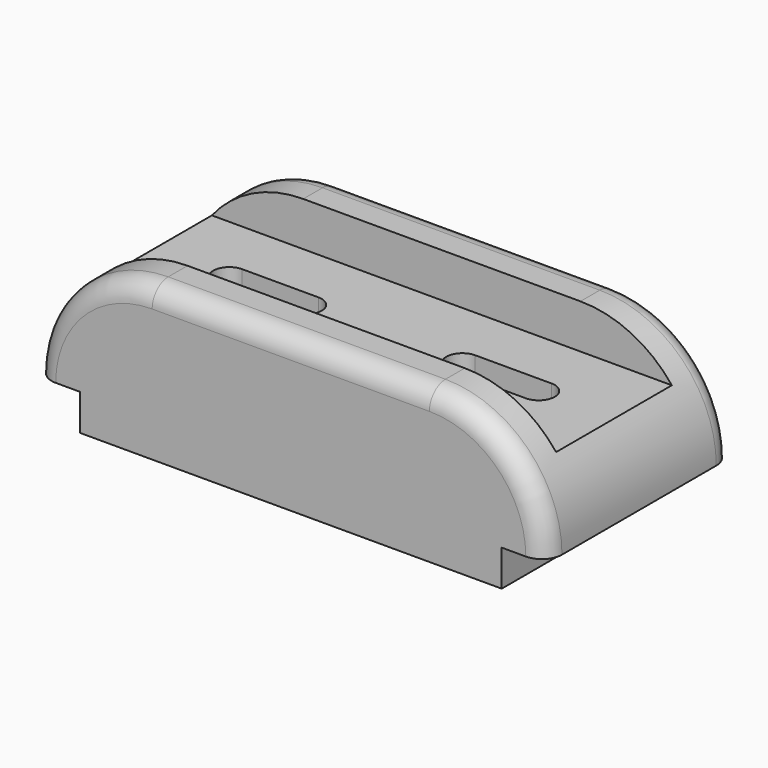
from build123d import *

# Parameters (mm, degrees)
F1_DEPTH = 58
F2_W     = 11
F2_H     = 9
F3_DEPTH = 58.001
F4_W     = 36
F4_H     = 11
F5_DEPTH = 127.001
F7_DEPTH = 27.001
F8_R     = 5


with BuildPart() as f1:
    # F0 (on Front) → F1 (new body)
    with BuildSketch(Plane.XZ):
        with BuildLine():
            Line((0, 9), (0, 0))
            Line((0, 0), (127, 0))
            Line((127, 0), (127, 9))
            ThreePointArc((127, 9), (118.506097, 29.506097), (98, 38))
            Line((98, 38), (29, 38))
            ThreePointArc((29, 38), (8.493903, 29.506097), (0, 9))
        make_face()
    extrude(amount=F1_DEPTH)

    # F2 (on face) → F3 (cut, through all)
    with BuildSketch(Plane.XZ.offset(58)):
        with Locations((5.5, 4.5)):
            Rectangle(F2_W, F2_H)
        with Locations((121.5, 4.5)):
            Rectangle(F2_W, F2_H)
    extrude(amount=-F3_DEPTH, mode=Mode.SUBTRACT)

    # F4 (on Right) → F5 (cut, through all)
    with BuildSketch(Plane.YZ):
        with Locations((-29, 32.5)):
            Rectangle(F4_W, F4_H)
    extrude(amount=F5_DEPTH, mode=Mode.SUBTRACT)

    # F6 (on face) → F7 (cut, through all)
    with BuildSketch(Plane.XY.offset(27)):
        with BuildLine():
            Line((44, -25), (25, -25))
            ThreePointArc((25, -25), (21, -29), (25, -33))
            Line((25, -33), (44, -33))
            ThreePointArc((44, -33), (48, -29), (44, -25))
        make_face()
        with BuildLine():
            Line((102, -25), (83, -25))
            ThreePointArc((83, -25), (79, -29), (83, -33))
            Line((83, -33), (102, -33))
            ThreePointArc((102, -33), (106, -29), (102, -25))
        make_face()
    extrude(amount=-F7_DEPTH, mode=Mode.SUBTRACT)

    # F8
    f8_edges = [f1.edges().sort_by_distance(p)[0] for p in [
        (63.5, -58, 38),
        (63.5, 0, 38),
    ]]
    fillet(f8_edges, radius=F8_R)


solid = f1.part
